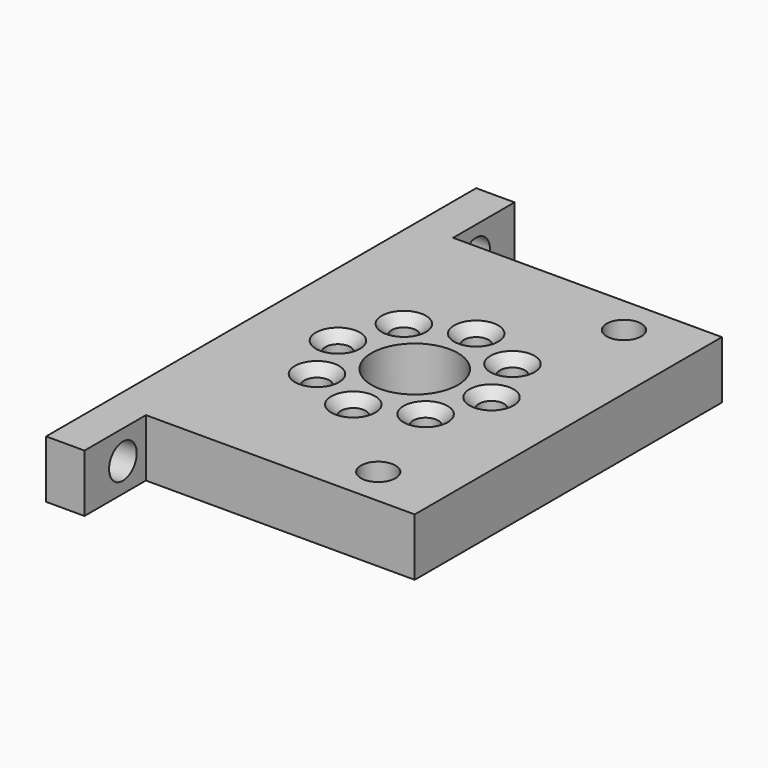
from build123d import *

# Parameters (mm, degrees)
PAD_DEPTH       = 6
SKETCH002_R     = 4.5
SKETCH002_R_2   = 1.3
POCKET001_DEPTH = 20
SKETCH005_R     = 1.8
POCKET_DEPTH    = 5
SKETCH006_R     = 1.8
POCKET002_DEPTH = 6
CHAMFER_SIZE    = 1


with BuildPart() as part:
    # Sketch → Pad (new body)
    with BuildSketch(Plane.XY):
        Polygon((0, 20), (0, -20), (0, -28), (4, -28), (4, -20), (32, -20), (32, 20), (4, 20), (4, 28), (0, 28), align=None)
    extrude(amount=PAD_DEPTH)

    # Sketch002 → Pocket001 (cut)
    with BuildSketch(Plane.XY.offset(6)):
        with Locations((16, 0)):
            Circle(SKETCH002_R)
        with Locations((16, 8)):
            Circle(SKETCH002_R_2)
        with Locations((21.656854, 5.656854)):
            Circle(SKETCH002_R_2)
        with Locations((24, 0)):
            Circle(SKETCH002_R_2)
        with Locations((21.656854, -5.656854)):
            Circle(SKETCH002_R_2)
        with Locations((16, -8)):
            Circle(SKETCH002_R_2)
        with Locations((10.343146, -5.656854)):
            Circle(SKETCH002_R_2)
        with Locations((8, 0)):
            Circle(SKETCH002_R_2)
        with Locations((10.343146, 5.656854)):
            Circle(SKETCH002_R_2)
    extrude(amount=-POCKET001_DEPTH, mode=Mode.SUBTRACT)

    # Sketch005 → Pocket (cut)
    with BuildSketch(Plane(origin=(0, 0, 0), x_dir=(0, -1, 0), z_dir=(-1, 0, 0))):
        with Locations((23, 3)):
            Circle(SKETCH005_R)
        with Locations((-23, 3)):
            Circle(SKETCH005_R)
    extrude(amount=-POCKET_DEPTH, mode=Mode.SUBTRACT)

    # Sketch006 (on Face4 of Pocket) → Pocket002 (cut)
    with BuildSketch(Plane(origin=(0, 0, 0), x_dir=(1, 0, 0), z_dir=(0, 0, -1))):
        with Locations((25, 16)):
            Circle(SKETCH006_R)
        with Locations((25, -16)):
            Circle(SKETCH006_R)
    extrude(amount=-POCKET002_DEPTH, mode=Mode.SUBTRACT)

    # Chamfer
    chamfer_edges = [part.edges().sort_by_distance(p)[0] for p in [
        (20.356854, -5.656854, 6),
        (22.7, 0, 6),
        (20.356854, 5.656854, 6),
        (14.7, 8, 6),
        (9.043146, 5.656854, 6),
        (6.7, 0, 6),
        (9.043146, -5.656854, 6),
        (14.7, -8, 6),
    ]]
    chamfer(chamfer_edges, length=CHAMFER_SIZE)


solid = part.part
